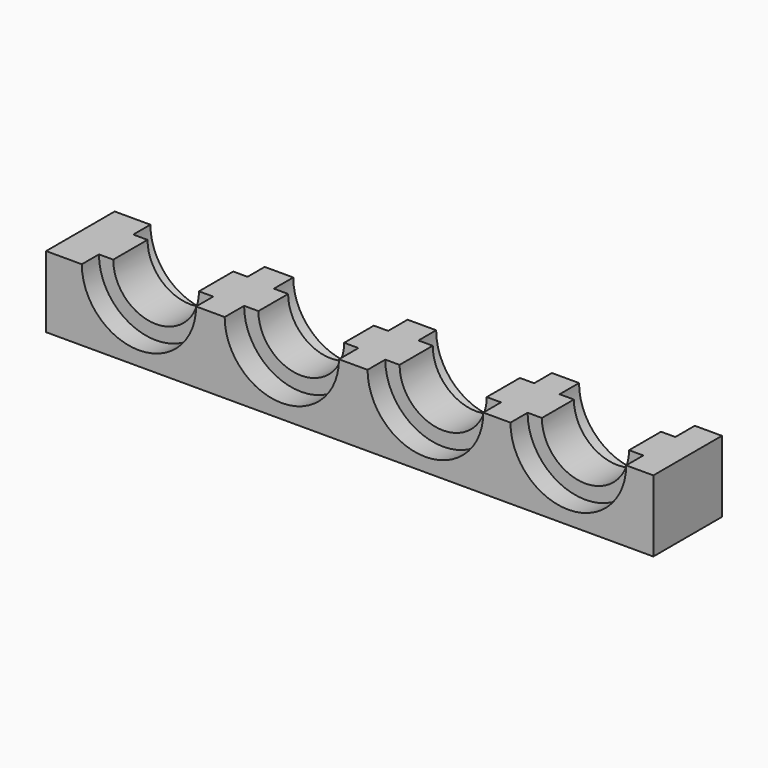
from build123d import *

# Parameters (mm, degrees)
F1_W     = 85
F1_H     = 12
F2_DEPTH = 10


with BuildPart() as f2:
    # F1 (on Top) → F2 (new body)
    with BuildSketch(Plane.XY):
        with Locations((42.5, 6)):
            Rectangle(F1_W, F1_H)
    extrude(amount=F2_DEPTH)

    # F3 (on offset) → F4 (revolve, cut)
    with BuildSketch(Plane.XY.offset(10)):
        Polygon((5, 3), (5, 0), (13, 0), (13, 12), (5, 12), (5, 9), (7, 9), (7, 3), align=None)
    revolve(axis=Axis((13, 6, 10), (0, 1, 0)), mode=Mode.SUBTRACT)

    # F5 (on offset) → F6 (revolve, cut)
    with BuildSketch(Plane.XY.offset(10)):
        Polygon((25, 3.4), (25, 0), (33, 0), (33, 12), (25, 12), (25, 8.6), (27, 8.6), (27, 3.4), align=None)
    revolve(axis=Axis((33, 6, 10), (0, 1, 0)), mode=Mode.SUBTRACT)

    # F7 (on offset) → F8 (revolve, cut)
    with BuildSketch(Plane.XY.offset(10)):
        Polygon((45, 3.1), (45, 0), (53.1, 0), (53.1, 12), (45, 12), (45, 8.9), (47, 8.9), (47, 3.1), align=None)
    revolve(axis=Axis((53.1, 6, 10), (0, 1, 0)), mode=Mode.SUBTRACT)

    # F9 (on offset) → F10 (revolve, cut)
    with BuildSketch(Plane.XY.offset(10)):
        Polygon((65, 3), (65, 0), (73.1, 0), (73.1, 12), (65, 12), (65, 8.6), (67, 8.6), (67, 3), align=None)
    revolve(axis=Axis((73.1, 6, 10), (0, 1, 0)), mode=Mode.SUBTRACT)


solid = f2.part
